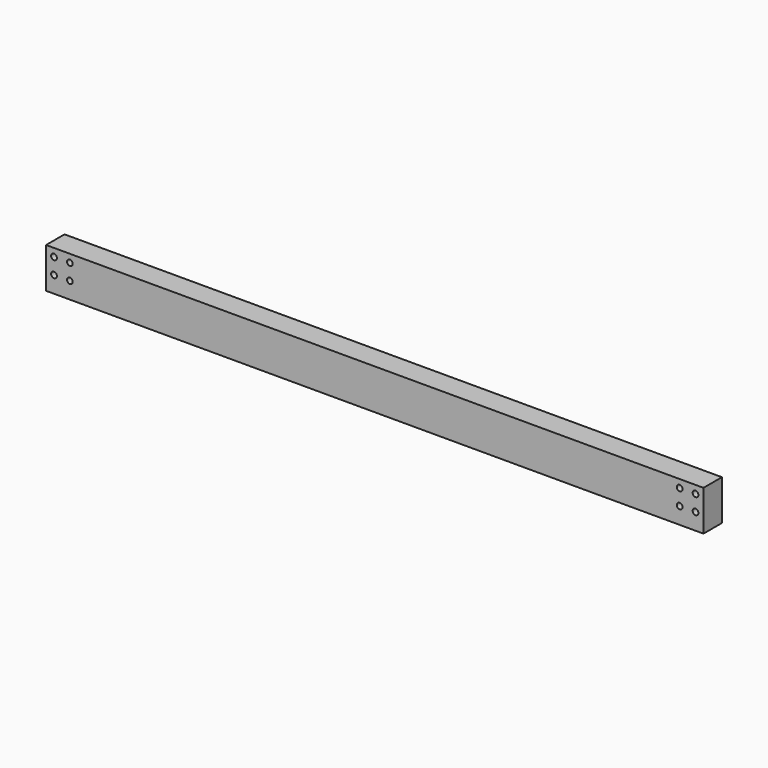
from build123d import *

# Parameters (mm, degrees)
F0_W     = 2895.6
F0_H     = 177.8
F1_DEPTH = 101.6
F3_D     = 25.4


with BuildPart() as f1:
    # F0 (on Front) → F1 (new body)
    with BuildSketch(Plane.XZ):
        with Locations((1.720819, -452.672716)):
            Rectangle(F0_W, F0_H)
    extrude(amount=F1_DEPTH)

    # F3 (through all)
    with Locations(Plane(origin=(0, 0, 0), x_dir=(-1, 0, 0), z_dir=(0, 1, 0))):
        with Locations((-1414.595819, -468.547716), (-1414.595819, -398.697716), (-1344.745819, -398.697716), (-1344.745819, -468.547716), (1341.304181, -398.697716), (1411.154181, -398.697716), (1411.154181, -468.547716), (1341.304181, -468.547716)):
            Hole(F3_D / 2)


solid = f1.part
